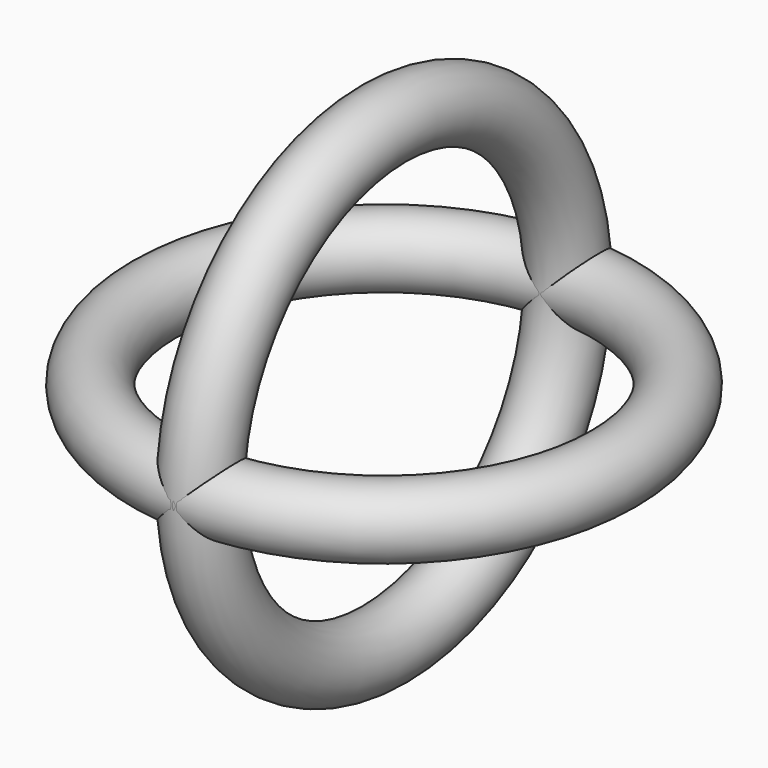
from build123d import *

# Parameters (mm, degrees)
F1_R = 1.5


with BuildPart() as f2:
    # F1 (on Front) → F2 (revolve)
    with BuildSketch(Plane.XZ):
        with Locations((0, 10)):
            Circle(F1_R)
    revolve(axis=Axis((5, 0, 0), (1, 0, 0)))


with BuildPart() as f3:
    # F1 (on Front) → F3 (revolve)
    with BuildSketch(Plane.XZ):
        with Locations((10, 0)):
            Circle(F1_R)
    revolve(axis=Axis((0, 0, 5), (0, 0, 1)))


solid = Compound([f2.part, f3.part])
